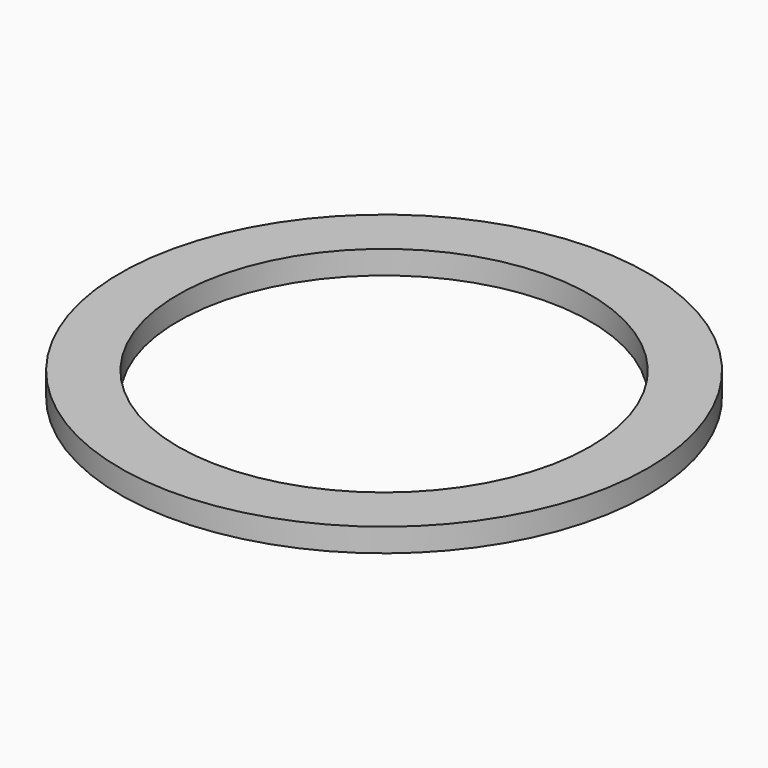
from build123d import *

# Parameters (mm, degrees)
F1_R     = 71.57233
F1_R_2   = 55.847776
F2_DEPTH = 6.35


with BuildPart() as f2:
    # F1 (on face) → F2 (new body)
    with BuildSketch(Plane.XY):
        Circle(F1_R)
        Circle(F1_R_2, mode=Mode.SUBTRACT)
    extrude(amount=F2_DEPTH)


solid = f2.part
